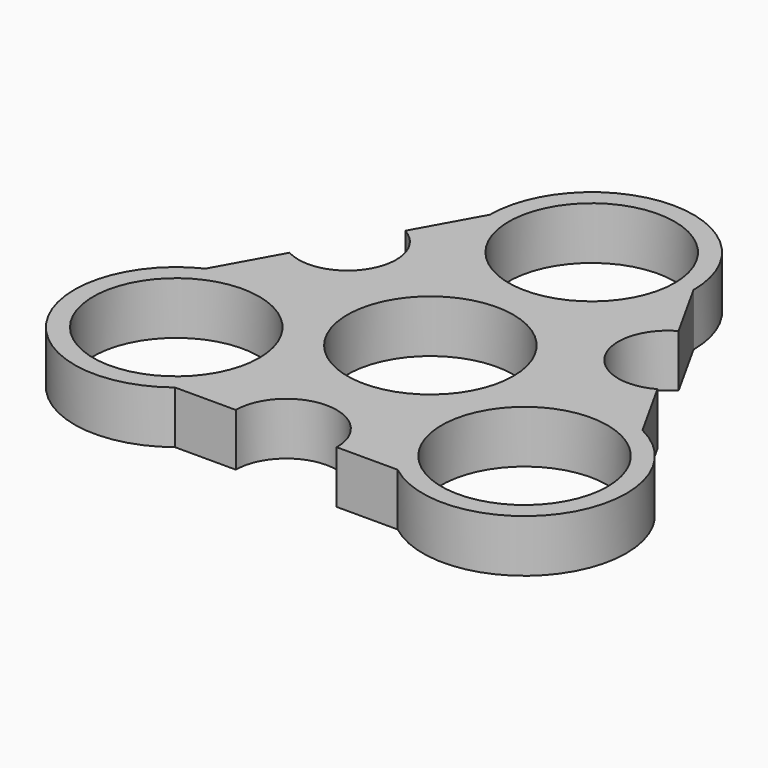
from build123d import *

# Parameters (mm, degrees)
F0_R     = 11.05
F1_DEPTH = 7


with BuildPart() as f1:
    # F0 (on Top) → F1 (new body)
    with BuildSketch(Plane.XY):
        with BuildLine():
            Line((18.114797, 18.648818), (13.55, 26.842903))
            ThreePointArc((13.55, 26.842903), (0, 40.392903), (-13.55, 26.842903))
            Line((-13.55, 26.842903), (-18.163027, 18.52472))
            ThreePointArc((-18.163027, 18.52472), (-15.631693, 9.690215), (-24.466198, 7.15888))
            Line((-24.466198, 7.15888), (-29.039817, -1.088241))
            ThreePointArc((-29.039817, -1.088241), (-34.68947, -20.455852), (-14.823439, -23.972062))
            Line((-14.823439, -23.972062), (-6.713385, -23.972062))
            ThreePointArc((-6.713385, -23.972062), (0, -17.258678), (6.713385, -23.972062))
            Line((6.713385, -23.972062), (14.823439, -23.972062))
            ThreePointArc((14.823439, -23.972062), (34.661194, -20.501168), (29.135954, -1.134821))
            Line((29.135954, -1.134821), (24.568158, 7.064647))
            ThreePointArc((24.568158, 7.064647), (15.549392, 9.630052), (18.114797, 18.648818))
        make_face()
        with Locations((-23.179692, -13.305501)):
            Circle(F0_R, mode=Mode.SUBTRACT)
        with Locations((23.179692, -13.305501)):
            Circle(F0_R, mode=Mode.SUBTRACT)
        Circle(F0_R, mode=Mode.SUBTRACT)
        with Locations((0, 26.842903)):
            Circle(F0_R, mode=Mode.SUBTRACT)
    extrude(amount=F1_DEPTH)


solid = f1.part
